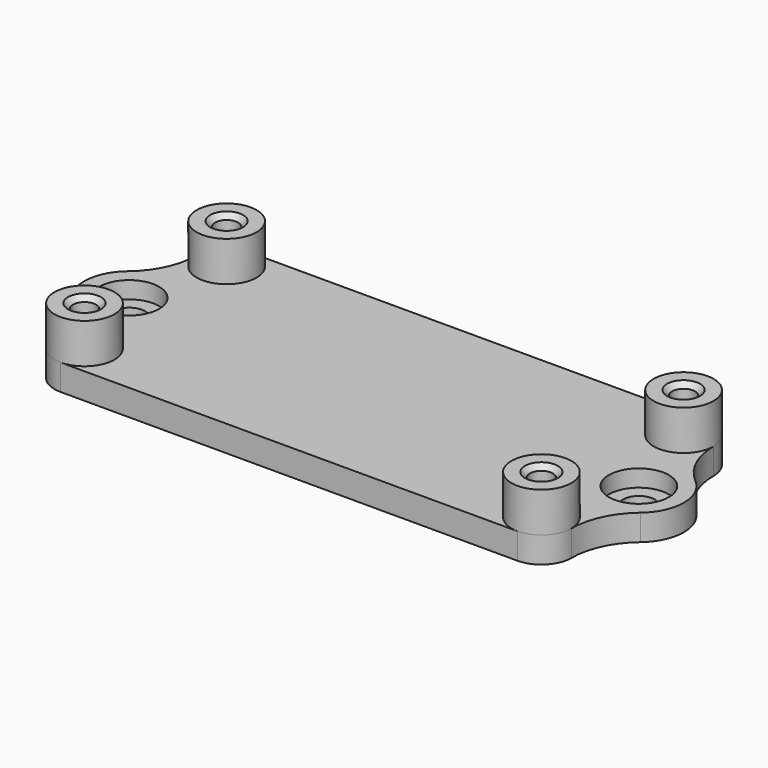
from build123d import *

# Parameters (mm, degrees)
SKETCH013_R         = 0.5
PAD006_DEPTH        = 2.6
SKETCH014_R         = 3
SKETCH014_R_2       = 0.5
PAD007_DEPTH        = 4
HOLE007_D           = 2.3
HOLE007_CSINK_D     = 3.3
HOLE007_CSINK_ANGLE = 90
HOLE008_D           = 3.2
HOLE008_CBORE_D     = 6
HOLE008_CBORE_DEPTH = 1.7
POCKET_DEPTH        = 132.355359


with BuildPart() as part:
    # Sketch013 → Pad006 (new body)
    with BuildSketch(Plane.XY):
        with BuildLine():
            ThreePointArc((-27, 11.89), (-29.12132, 11.01132), (-30, 8.89))
            Line((-30, -8.89), (-30, 8.89))
            ThreePointArc((-30, -8.89), (-29.12132, -11.01132), (-27, -11.89))
            Line((27, -11.89), (-27, -11.89))
            ThreePointArc((27, -11.89), (29.12132, -11.01132), (30, -8.89))
            Line((30, 8.89), (30, -8.89))
            ThreePointArc((30, 8.89), (29.12132, 11.01132), (27, 11.89))
            Line((-27, 11.89), (27, 11.89))
        make_face()
        with Locations((-22.86, 8.89)):
            Circle(SKETCH013_R, mode=Mode.SUBTRACT)
        with Locations((22.86, 8.89)):
            Circle(SKETCH013_R, mode=Mode.SUBTRACT)
        with Locations((22.86, -8.89)):
            Circle(SKETCH013_R, mode=Mode.SUBTRACT)
        with Locations((-22.86, -8.89)):
            Circle(SKETCH013_R, mode=Mode.SUBTRACT)
    extrude(amount=PAD006_DEPTH)

    # Sketch014 (on Face14 of Pad006) → Pad007 (join)
    with BuildSketch(Plane.XY.offset(2.6)):
        with Locations((-22.86, 8.89)):
            Circle(SKETCH014_R)
        with Locations((-22.86, 8.89)):
            Circle(SKETCH014_R_2, mode=Mode.SUBTRACT)
        with Locations((22.86, 8.89)):
            Circle(SKETCH014_R)
        with Locations((22.86, 8.89)):
            Circle(SKETCH014_R_2, mode=Mode.SUBTRACT)
        with Locations((-22.86, -8.89)):
            Circle(SKETCH014_R)
        with Locations((-22.86, -8.89)):
            Circle(SKETCH014_R_2, mode=Mode.SUBTRACT)
        with Locations((22.86, -8.89)):
            Circle(SKETCH014_R)
        with Locations((22.86, -8.89)):
            Circle(SKETCH014_R_2, mode=Mode.SUBTRACT)
    extrude(amount=PAD007_DEPTH)

    # Hole007 (through all)
    with Locations(Plane.XY.offset(6.6)):
        with Locations((-22.86, 8.89), (22.86, 8.89), (22.86, -8.89), (-22.86, -8.89)):
            CounterSinkHole(HOLE007_D / 2, HOLE007_CSINK_D / 2, counter_sink_angle=HOLE007_CSINK_ANGLE)

    # Hole008 (through all)
    with Locations(Plane.XY.offset(2.6)):
        with Locations((-25.5, 0), (25.5, 0)):
            CounterBoreHole(HOLE008_D / 2, HOLE008_CBORE_D / 2, HOLE008_CBORE_DEPTH)

    # Sketch017 (on Face5 of Hole008) → Pocket (cut, through all)
    with BuildSketch(Plane.XY.offset(2.6)):
        with BuildLine():
            ThreePointArc((-22.86, 11.89), (-24.98132, 11.01132), (-25.86, 8.89))
            ThreePointArc((-28.396031, 3.444271), (-26.525094, 5.88636), (-25.86, 8.89))
            ThreePointArc((-28.396031, 3.444271), (-30, 0), (-28.396031, -3.444271))
            ThreePointArc((-25.86, -8.89), (-26.525094, -5.88636), (-28.396031, -3.444271))
            ThreePointArc((-25.86, -8.89), (-24.98132, -11.01132), (-22.86, -11.89))
            Line((-32.97494, -11.89), (-22.86, -11.89))
            Line((-32.97494, -8.89), (-32.97494, -11.89))
            Line((-32.97494, 8.89), (-32.97494, -8.89))
            Line((-32.97494, 8.89), (-32.97494, 11.89))
            Line((-32.97494, 11.89), (-22.86, 11.89))
        make_face()
    pocket = extrude(amount=-POCKET_DEPTH, mode=Mode.SUBTRACT)

    # Mirrored005: Pocket across Sketch017 V_Axis
    add(pocket.mirror(Plane(origin=(0, 0, 2.6), x_dir=(0, 0, 1), z_dir=(1, 0, 0))), mode=Mode.SUBTRACT)


solid = part.part
